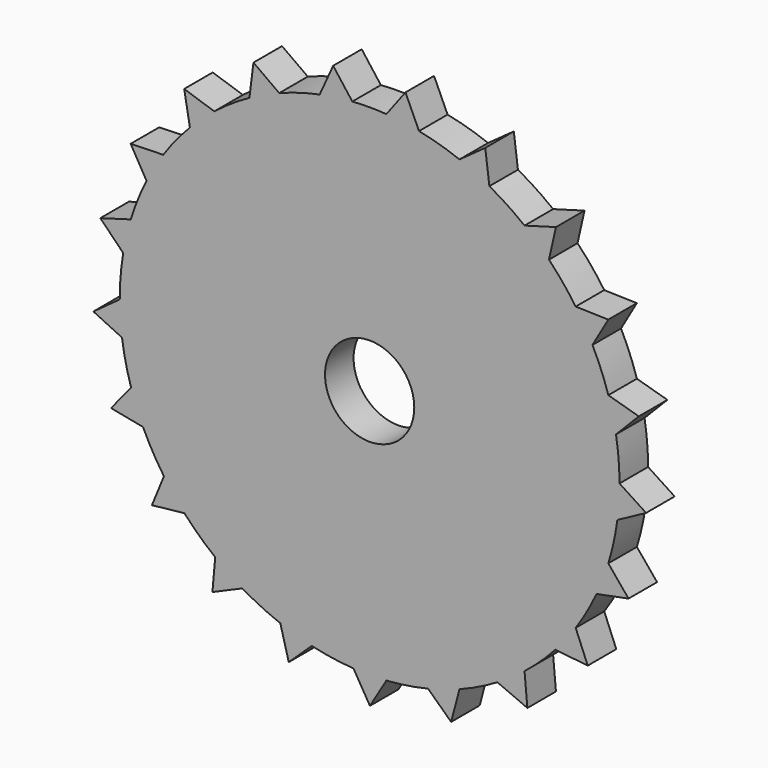
from build123d import *

# Parameters (mm, degrees)
F0_R     = 7.9375
F1_DEPTH = 6.35


with BuildPart() as f1:
    # F0 (on Front) → F1 (new body)
    with BuildSketch(Plane.XZ):
        with BuildLine():
            ThreePointArc((44.0640721068, -5.844659902), (44.3534130882, -2.9286938091), (44.45, 0))
            ThreePointArc((44.45, 0), (44.2916429403, 3.7487151993), (43.8177000834, 7.4707201392))
            ThreePointArc((43.8177000834, 7.4707201392), (43.2302609799, 10.3415199856), (42.4549488772, 13.1673769534))
            ThreePointArc((42.4549488772, 13.1673769534), (41.1932213858, 16.7009284729), (39.6379848993, 20.1154829204))
            ThreePointArc((39.6379848993, 20.1154829204), (38.2264978161, 22.6834160724), (36.6488834271, 25.1527700969))
            ThreePointArc((36.6488834271, 25.1527700969), (34.3970458346, 28.1539648691), (31.900123201, 30.9545576574))
            ThreePointArc((31.900123201, 30.9545576574), (29.7912918003, 32.9891108226), (27.552991384, 34.8802976735))
            ThreePointArc((27.552991384, 34.8802976735), (24.5131823233, 37.0797302092), (21.2987124989, 39.0149631025))
            ThreePointArc((21.2987124989, 39.0149631025), (20.0011436472, 39.6958027102), (18.6818383084, 40.3335024194))
            Line((18.6818383084, 40.3335024194), (15.9837753185, 41.476757667))
            ThreePointArc((15.9837753185, 41.476757667), (12.4288665323, 42.6769935296), (8.7853998717, 43.5731482578))
            Line((8.7853998717, 43.5731482578), (5.8953894288, 44.0573136208))
            ThreePointArc((5.8953894288, 44.0573136208), (4.4399865206, 44.227695166), (2.9797584028, 44.3500117233))
            ThreePointArc((2.9797584028, 44.3500117233), (-0.0511777408, 44.4499705381), (-3.0818756726, 44.3430326245))
            ThreePointArc((-3.0818756726, 44.3430326245), (-5.99682497, 44.0436214483), (-8.8857128589, 43.5528025159))
            ThreePointArc((-8.8857128589, 43.5528025159), (-12.5271062762, 42.6482603203), (-16.0792418436, 41.4398417195))
            ThreePointArc((-16.0792418436, 41.4398417195), (-18.7746650962, 40.2903766491), (-21.3884961364, 38.9658149282))
            ThreePointArc((-21.3884961364, 38.9658149282), (-24.5985011604, 37.0231851772), (-27.6332375088, 34.8167586772))
            ThreePointArc((-27.6332375088, 34.8167586772), (-29.8671771379, 32.9204226858), (-31.9713179637, 30.8810188896))
            ThreePointArc((-31.9713179637, 30.8810188896), (-34.4617850273, 28.0746838403), (-36.7067057715, 25.0683116983))
            ThreePointArc((-36.7067057715, 25.0683116983), (-38.2786297743, 22.5953314338), (-39.6841999125, 20.0241548461))
            ThreePointArc((-39.6841999125, 20.0241548461), (-41.2315695506, 16.6060281944), (-42.4851569561, 13.0695806519))
            ThreePointArc((-42.4851569561, 13.0695806519), (-43.253959877, 10.2419458581), (-43.8347868066, 7.3698009215))
            ThreePointArc((-43.8347868066, 7.3698009215), (-44.3001577128, 3.6467144971), (-44.4498821525, -0.1023554137))
            ThreePointArc((-44.4498821525, -0.1023554137), (-44.3465515673, -3.0308190466), (-44.0504967316, -5.9461111405))
            ThreePointArc((-44.0504967316, -5.9461111405), (-43.3920943841, -9.6399504647), (-42.424515682, -13.2651034351))
            ThreePointArc((-42.424515682, -13.2651034351), (-41.4583271722, -16.0315192069), (-40.3119662534, -18.7282641156))
            ThreePointArc((-40.3119662534, -18.7282641156), (-38.5888928498, -22.0612748641), (-36.5908667529, -25.2370951235))
            ThreePointArc((-36.5908667529, -25.2370951235), (-34.8485512733, -27.5931327354), (-32.954788597, -29.8292542402))
            ThreePointArc((-32.954788597, -29.8292542402), (-30.3217176818, -32.5022451044), (-27.4725991601, -34.943651718))
            ThreePointArc((-27.4725991601, -34.943651718), (-25.1105575411, -36.6778189097), (-22.6393887587, -38.2525891494))
            ThreePointArc((-22.6393887587, -38.2525891494), (-19.3326807859, -40.025616218), (-15.8882240398, -41.5134536851))
            ThreePointArc((-15.8882240398, -41.5134536851), (-13.1184874977, -42.4700810662), (-10.2917397433, -43.2421390897))
            ThreePointArc((-10.2917397433, -43.2421390897), (-6.6082249244, -43.9560446736), (-2.877625333, -44.3567556573))
            ThreePointArc((-2.877625333, -44.3567556573), (0.0511777408, -44.4499705381), (2.9797584028, -44.3500117233))
            ThreePointArc((2.9797584028, -44.3500117233), (6.7094253828, -43.9407113169), (10.391286519, -43.2183255631))
            ThreePointArc((10.391286519, -43.2183255631), (13.2162489541, -42.4397604091), (15.9837753185, -41.476757667))
            ThreePointArc((15.9837753185, -41.476757667), (19.4247968758, -39.9809925631), (22.7274133165, -38.2003558091))
            ThreePointArc((22.7274133165, -38.2003558091), (25.1949493097, -36.619899362), (27.552991384, -34.8802976735))
            ThreePointArc((27.552991384, -34.8802976735), (30.3964805031, -32.4323368419), (33.0233893173, -29.7532898685))
            ThreePointArc((33.0233893173, -29.7532898685), (34.9119978358, -27.5128135078), (36.6488834271, -25.1527700969))
            ThreePointArc((36.6488834271, -25.1527700969), (38.6395912369, -21.9723573847), (40.3549851186, -18.6353877362))
            ThreePointArc((40.3549851186, -18.6353877362), (40.9473091431, -17.2950968178), (41.4951331794, -15.9360102417))
            Line((41.4951331794, -15.9360102417), (42.4549488772, -13.1673769534))
            ThreePointArc((42.4549488772, -13.1673769534), (43.4141773417, -9.5400055419), (44.0640721068, -5.844659902))
        make_face()
        Circle(F0_R, mode=Mode.SUBTRACT)
        with BuildLine():
            Line((49.1725476546, -3.0876265469), (44.45, 0))
            ThreePointArc((44.45, 0), (44.3534130882, -2.9286938091), (44.0640721068, -5.844659902))
            Line((44.0640721068, -5.844659902), (49.1725476546, -3.0876265469))
        make_face()
        with BuildLine():
            ThreePointArc((42.4549488772, 13.1673769534), (43.2302609799, 10.3415199856), (43.8177000834, 7.4707201392))
            Line((43.8177000834, 7.4707201392), (47.8801786158, 11.6172878184))
            Line((47.8801786158, 11.6172878184), (42.4549488772, 13.1673769534))
        make_face()
        with BuildLine():
            Line((46.0508898584, -17.5153767813), (42.4549488772, -13.1673769534))
            ThreePointArc((42.4549488772, -13.1673769534), (41.997861873, -14.5596050118), (41.4951331794, -15.9360102417))
            ThreePointArc((41.4951331794, -15.9360102417), (40.9473091431, -17.2950968178), (40.3549851186, -18.6353877362))
            Line((40.3549851186, -18.6353877362), (46.0508898584, -17.5153767813))
        make_face()
        with BuildLine():
            ThreePointArc((41.4951331794, -15.9360102417), (41.997861873, -14.5596050118), (42.4549488772, -13.1673769534))
            Line((42.4549488772, -13.1673769534), (41.4951331794, -15.9360102417))
        make_face()
        with BuildLine():
            ThreePointArc((36.6488834271, 25.1527700969), (38.2264978161, 22.6834160724), (39.6379848993, 20.1154829204))
            Line((39.6379848993, 20.1154829204), (42.4520045518, 25.0060030808))
            Line((42.4520045518, 25.0060030808), (36.6488834271, 25.1527700969))
        make_face()
        with BuildLine():
            ThreePointArc((27.552991384, 34.8802976735), (29.7912918003, 32.9891108226), (31.900123201, 30.9545576574))
            Line((31.900123201, 30.9545576574), (33.1391274312, 36.4591705012))
            Line((33.1391274312, 36.4591705012), (27.552991384, 34.8802976735))
        make_face()
        with BuildLine():
            Line((38.7954242099, -30.3708403064), (36.6488834271, -25.1527700969))
            ThreePointArc((36.6488834271, -25.1527700969), (34.9119978358, -27.5128135078), (33.0233893173, -29.7532898685))
            Line((33.0233893173, -29.7532898685), (38.7954242099, -30.3708403064))
        make_face()
        with BuildLine():
            ThreePointArc((18.6818383084, 40.3335024194), (20.0011436472, 39.6958027102), (21.2987124989, 39.0149631025))
            Line((21.2987124989, 39.0149631025), (20.5630526794, 44.7731364218))
            Line((20.5630526794, 44.7731364218), (15.9837753185, 41.476757667))
            ThreePointArc((15.9837753185, 41.476757667), (17.3422302537, 40.9273692024), (18.6818383084, 40.3335024194))
        make_face()
        with BuildLine():
            Line((28.0574454172, -40.500032558), (27.552991384, -34.8802976735))
            ThreePointArc((27.552991384, -34.8802976735), (25.1949493097, -36.619899362), (22.7274133165, -38.2003558091))
            Line((22.7274133165, -38.2003558091), (28.0574454172, -40.500032558))
        make_face()
        with BuildLine():
            Line((15.9837753185, 41.476757667), (18.6818383084, 40.3335024194))
            ThreePointArc((18.6818383084, 40.3335024194), (17.3422302537, 40.9273692024), (15.9837753185, 41.476757667))
        make_face()
        with BuildLine():
            Line((14.4973696484, -47.0882061011), (15.9837753185, -41.476757667))
            ThreePointArc((15.9837753185, -41.476757667), (13.2162489541, -42.4397604091), (10.391286519, -43.2183255631))
            Line((10.391286519, -43.2183255631), (14.4973696484, -47.0882061011))
        make_face()
        with BuildLine():
            Line((5.8953894288, 44.0573136208), (8.7853998717, 43.5731482578))
            ThreePointArc((8.7853998717, 43.5731482578), (7.3443854505, 43.839052252), (5.8953894288, 44.0573136208))
        make_face()
        with BuildLine():
            ThreePointArc((5.8953894288, 44.0573136208), (7.3443854505, 43.839052252), (8.7853998717, 43.5731482578))
            Line((8.7853998717, 43.5731482578), (6.3770210487, 48.8549535164))
            Line((6.3770210487, 48.8549535164), (2.9797584028, 44.3500117233))
            ThreePointArc((2.9797584028, 44.3500117233), (4.4399865206, 44.227695166), (5.8953894288, 44.0573136208))
        make_face()
        with BuildLine():
            Line((0.0511777408, -49.2717251549), (2.9797584028, -44.3500117233))
            ThreePointArc((2.9797584028, -44.3500117233), (0.0511777408, -44.4499705381), (-2.877625333, -44.3567556573))
            Line((-2.877625333, -44.3567556573), (0.0511777408, -49.2717251549))
        make_face()
        with BuildLine():
            ThreePointArc((-8.8857128589, 43.5528025159), (-5.99682497, 44.0436214483), (-3.0818756726, 44.3430326245))
            Line((-3.0818756726, 44.3430326245), (-6.4895028814, 48.8401395667))
            Line((-6.4895028814, 48.8401395667), (-8.8857128589, 43.5528025159))
        make_face()
        with BuildLine():
            Line((-14.3889007778, -47.1214644822), (-10.2917397433, -43.2421390897))
            ThreePointArc((-10.2917397433, -43.2421390897), (-13.1184874977, -42.4700810662), (-15.8882240398, -41.5134536851))
            Line((-15.8882240398, -41.5134536851), (-14.3889007778, -47.1214644822))
        make_face()
        with BuildLine():
            ThreePointArc((-21.3884961364, 38.9658149282), (-18.7746650962, 40.2903766491), (-16.0792418436, 41.4398417195))
            Line((-16.0792418436, 41.4398417195), (-20.6660976647, 44.7256669917))
            Line((-20.6660976647, 44.7256669917), (-21.3884961364, 38.9658149282))
        make_face()
        with BuildLine():
            Line((-27.964111242, -40.564533314), (-22.6393887587, -38.2525891494))
            ThreePointArc((-22.6393887587, -38.2525891494), (-25.1105575411, -36.6778189097), (-27.4725991601, -34.943651718))
            Line((-27.4725991601, -34.943651718), (-27.964111242, -40.564533314))
        make_face()
        with BuildLine():
            ThreePointArc((-31.9713179637, 30.8810188896), (-29.8671771379, 32.9204226858), (-27.6332375088, 34.8167586772))
            Line((-27.6332375088, 34.8167586772), (-32.9875778767, 36.596346626))
            Line((-32.9875778767, 36.596346626), (-31.9713179637, 30.8810188896))
        make_face()
        with BuildLine():
            Line((-38.7253861476, -30.4600943574), (-32.954788597, -29.8292542402))
            ThreePointArc((-32.954788597, -29.8292542402), (-34.8485512733, -27.5931327354), (-36.5908667529, -25.2370951235))
            Line((-36.5908667529, -25.2370951235), (-38.7253861476, -30.4600943574))
        make_face()
        with BuildLine():
            ThreePointArc((-39.6841999125, 20.0241548461), (-38.2786297743, 22.5953314338), (-36.7067057715, 25.0683116983))
            Line((-36.7067057715, 25.0683116983), (-42.509473549, 24.9081821723))
            Line((-42.509473549, 24.9081821723), (-39.6841999125, 20.0241548461))
        make_face()
        with BuildLine():
            Line((-46.0104349513, -17.621372141), (-40.3119662534, -18.7282641156))
            ThreePointArc((-40.3119662534, -18.7282641156), (-41.4583271722, -16.0315192069), (-42.424515682, -13.2651034351))
            Line((-42.424515682, -13.2651034351), (-46.0104349513, -17.621372141))
        make_face()
        with BuildLine():
            ThreePointArc((-43.8347868066, 7.3698009215), (-43.253959877, 10.2419458581), (-42.4851569561, 13.0695806519))
            Line((-42.4851569561, 13.0695806519), (-47.906802907, 11.5070029014))
            Line((-47.906802907, 11.5070029014), (-43.8347868066, 7.3698009215))
        make_face()
        with BuildLine():
            Line((-49.1436337538, -3.5179741351), (-44.0504967316, -5.9461111405))
            ThreePointArc((-44.0504967316, -5.9461111405), (-44.3465515673, -3.0308190466), (-44.4498821525, -0.1023554137))
            Line((-44.4498821525, -0.1023554137), (-49.1436337538, -3.5179741351))
        make_face()
    extrude(amount=F1_DEPTH)


solid = f1.part
